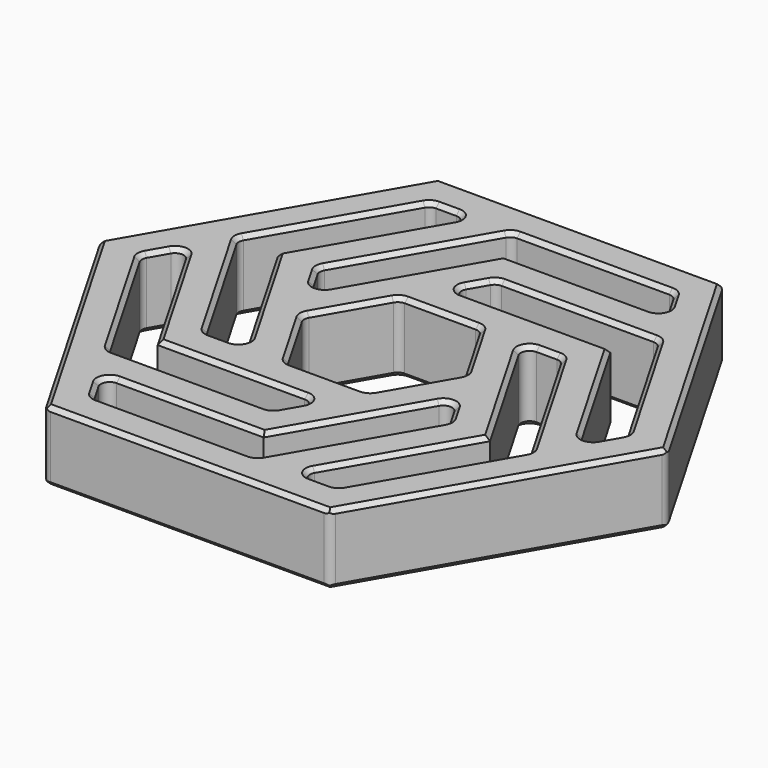
from build123d import *

# Parameters (mm, degrees)
F1_DEPTH = 12.7
F2_R     = 1.5875
F3_SIZE  = 0.762
F4_SIZE  = 0.762
F5_R     = 1.5875


with BuildPart() as f1:
    # F0 (on Top) → F1 (new body)
    with BuildSketch(Plane.XY):
        Polygon((25.663219, 44.45), (-25.663219, 44.45), (-51.326439, 0), (-25.663219, -44.45), (25.663219, -44.45), (51.326439, 0), align=None)
        Polygon((3.666174, -31.75), (18.330871, -6.35), (21.997045, -12.7), (7.332348, -38.1), (-21.997045, -38.1), (-25.663219, -31.75), align=None, mode=Mode.SUBTRACT)
        Polygon((-25.663219, -19.05), (3.666174, -19.05), (0, -25.4), (-29.329394, -25.4), (-43.994091, 0), (-40.327916, 6.35), align=None, mode=Mode.SUBTRACT)
        Polygon((14.664697, -38.1), (29.329394, -12.7), (14.664697, 12.7), (21.997045, 12.7), (36.661742, -12.7), (21.997045, -38.1), align=None, mode=Mode.SUBTRACT)
        Polygon((-14.664697, 0), (-7.332348, 12.7), (7.332348, 12.7), (14.664697, 0), (7.332348, -12.7), (-7.332348, -12.7), align=None, mode=Mode.SUBTRACT)
        Polygon((-29.329394, 12.7), (-14.664697, -12.7), (-21.997045, -12.7), (-36.661742, 12.7), (-21.997045, 38.1), (-14.664697, 38.1), align=None, mode=Mode.SUBTRACT)
        Polygon((40.327916, -6.35), (25.663219, 19.05), (-3.666174, 19.05), (0, 25.4), (29.329394, 25.4), (43.994091, 0), align=None, mode=Mode.SUBTRACT)
        Polygon((-3.666174, 31.75), (-18.330871, 6.35), (-21.997045, 12.7), (-7.332348, 38.1), (7.332348, 38.1), (21.997045, 38.1), (25.663219, 31.75), align=None, mode=Mode.SUBTRACT)
    extrude(amount=F1_DEPTH)

    # F2
    f2_edges = [f1.edges().sort_by_distance(p)[0] for p in [
        (14.664697, 0, 6.35),
        (7.332348, -12.7, 6.35),
        (-7.332348, -12.7, 6.35),
        (-14.664697, 0, 6.35),
        (-7.332348, 12.7, 6.35),
        (7.332348, 12.7, 6.35),
        (14.664697, -38.1, 6.35),
        (21.997045, -38.1, 6.35),
        (36.661742, -12.7, 6.35),
        (21.997045, 12.7, 6.35),
        (14.664697, 12.7, 6.35),
        (40.327916, -6.35, 6.35),
        (43.994091, 0, 6.35),
        (29.329394, 25.4, 6.35),
        (0, 25.4, 6.35),
        (-3.666174, 19.05, 6.35),
        (21.997045, 38.1, 6.35),
        (25.663219, 31.75, 6.35),
        (-7.332348, 38.1, 6.35),
        (-21.997045, 12.7, 6.35),
        (-18.330871, 6.35, 6.35),
        (-14.664697, 38.1, 6.35),
        (-21.997045, 38.1, 6.35),
        (-36.661742, 12.7, 6.35),
        (-21.997045, -12.7, 6.35),
        (-14.664697, -12.7, 6.35),
        (-40.327916, 6.35, 6.35),
        (-43.994091, 0, 6.35),
        (-29.329394, -25.4, 6.35),
        (0, -25.4, 6.35),
        (3.666174, -19.05, 6.35),
        (-25.663219, -31.75, 6.35),
        (-21.997045, -38.1, 6.35),
        (7.332348, -38.1, 6.35),
        (21.997045, -12.7, 6.35),
        (18.330871, -6.35, 6.35),
    ]]
    fillet(f2_edges, radius=F2_R)

    # F3
    f3_edges = [f1.edges().sort_by_distance(p)[0] for p in [
        (-23.371861, -35.71875, 12.7),
        (-21.874252, -37.887315, 12.7),
        (-24.288404, -32.54375, 12.7),
        (-7.332348, -38.1, 12.7),
        (-9.623707, -31.75, 12.7),
        (7.209555, -37.887315, 12.7),
        (10.311115, -20.240625, 12.7),
        (14.664697, -25.4, 12.7),
        (18.330871, -7.9375, 12.7),
        (21.751458, -12.7, 12.7),
        (20.62223, -10.31875, 12.7),
        (0, 44.45, 12.7),
        (-38.494829, 22.225, 12.7),
        (-38.494829, -22.225, 12.7),
        (0, -44.45, 12.7),
        (38.494829, -22.225, 12.7),
        (38.494829, 22.225, 12.7),
        (-42.619275, 2.38125, 12.7),
        (-43.748503, 0, 12.7),
        (-40.327916, 4.7625, 12.7),
        (-36.661742, -12.7, 12.7),
        (-32.30816, -7.540625, 12.7),
        (-29.2066, -25.187315, 12.7),
        (-12.373338, -19.05, 12.7),
        (-14.664697, -25.4, 12.7),
        (2.291359, -19.84375, 12.7),
        (-0.122794, -25.187315, 12.7),
        (1.374815, -23.01875, 12.7),
        (19.247415, -38.1, 12.7),
        (21.874252, -37.887315, 12.7),
        (16.039512, -37.30625, 12.7),
        (29.329394, -25.4, 12.7),
        (22.684453, -24.209375, 12.7),
        (36.416155, -12.7, 12.7),
        (22.684453, -1.190625, 12.7),
        (29.329394, 0, 12.7),
        (16.039512, 11.90625, 12.7),
        (21.874252, 12.487315, 12.7),
        (19.247415, 12.7, 12.7),
        (-10.998523, 6.35, 12.7),
        (-14.41911, 0, 12.7),
        (-7.209555, 12.487315, 12.7),
        (-10.998523, -6.35, 12.7),
        (0, 12.7, 12.7),
        (-7.209555, -12.487315, 12.7),
        (7.209555, 12.487315, 12.7),
        (0, -12.7, 12.7),
        (10.998523, 6.35, 12.7),
        (7.209555, -12.487315, 12.7),
        (14.41911, 0, 12.7),
        (10.998523, -6.35, 12.7),
        (-19.247415, 38.1, 12.7),
        (-21.874252, 37.887315, 12.7),
        (-16.039512, 37.30625, 12.7),
        (-29.329394, 25.4, 12.7),
        (-22.684453, 24.209375, 12.7),
        (-36.416155, 12.7, 12.7),
        (-22.684453, 1.190625, 12.7),
        (-29.329394, 0, 12.7),
        (-16.039512, -11.90625, 12.7),
        (-21.874252, -12.487315, 12.7),
        (-19.247415, -12.7, 12.7),
        (32.30816, 7.540625, 12.7),
        (40.327916, -4.7625, 12.7),
        (12.373338, 19.05, 12.7),
        (42.619275, -2.38125, 12.7),
        (-2.291359, 19.84375, 12.7),
        (43.748503, 0, 12.7),
        (-1.374815, 23.01875, 12.7),
        (36.661742, 12.7, 12.7),
        (0.122794, 25.187315, 12.7),
        (29.2066, 25.187315, 12.7),
        (14.664697, 25.4, 12.7),
        (23.371861, 35.71875, 12.7),
        (21.874252, 37.887315, 12.7),
        (24.288404, 32.54375, 12.7),
        (7.332348, 38.1, 12.7),
        (9.623707, 31.75, 12.7),
        (-7.209555, 37.887315, 12.7),
        (-10.311115, 20.240625, 12.7),
        (-14.664697, 25.4, 12.7),
        (-18.330871, 7.9375, 12.7),
        (-21.751458, 12.7, 12.7),
        (-20.62223, 10.31875, 12.7),
    ]]
    chamfer(f3_edges, length=F3_SIZE)

    # F4
    f4_edges = [f1.edges().sort_by_distance(p)[0] for p in [
        (-23.371861, -35.71875, 0),
        (-21.874252, -37.887315, 0),
        (-24.288404, -32.54375, 0),
        (-7.332348, -38.1, 0),
        (-9.623707, -31.75, 0),
        (7.209555, -37.887315, 0),
        (10.311115, -20.240625, 0),
        (14.664697, -25.4, 0),
        (18.330871, -7.9375, 0),
        (21.751458, -12.7, 0),
        (20.62223, -10.31875, 0),
        (0, 44.45, 0),
        (-38.494829, 22.225, 0),
        (-38.494829, -22.225, 0),
        (0, -44.45, 0),
        (38.494829, -22.225, 0),
        (38.494829, 22.225, 0),
        (-42.619275, 2.38125, 0),
        (-43.748503, 0, 0),
        (-40.327916, 4.7625, 0),
        (-36.661742, -12.7, 0),
        (-32.30816, -7.540625, 0),
        (-29.2066, -25.187315, 0),
        (-12.373338, -19.05, 0),
        (-14.664697, -25.4, 0),
        (2.291359, -19.84375, 0),
        (-0.122794, -25.187315, 0),
        (1.374815, -23.01875, 0),
        (19.247415, -38.1, 0),
        (21.874252, -37.887315, 0),
        (16.039512, -37.30625, 0),
        (29.329394, -25.4, 0),
        (22.684453, -24.209375, 0),
        (36.416155, -12.7, 0),
        (22.684453, -1.190625, 0),
        (29.329394, 0, 0),
        (16.039512, 11.90625, 0),
        (21.874252, 12.487315, 0),
        (19.247415, 12.7, 0),
        (-10.998523, 6.35, 0),
        (-14.41911, 0, 0),
        (-7.209555, 12.487315, 0),
        (-10.998523, -6.35, 0),
        (0, 12.7, 0),
        (-7.209555, -12.487315, 0),
        (7.209555, 12.487315, 0),
        (0, -12.7, 0),
        (10.998523, 6.35, 0),
        (7.209555, -12.487315, 0),
        (14.41911, 0, 0),
        (10.998523, -6.35, 0),
        (-19.247415, 38.1, 0),
        (-21.874252, 37.887315, 0),
        (-16.039512, 37.30625, 0),
        (-29.329394, 25.4, 0),
        (-22.684453, 24.209375, 0),
        (-36.416155, 12.7, 0),
        (-22.684453, 1.190625, 0),
        (-29.329394, 0, 0),
        (-16.039512, -11.90625, 0),
        (-21.874252, -12.487315, 0),
        (-19.247415, -12.7, 0),
        (32.30816, 7.540625, 0),
        (40.327916, -4.7625, 0),
        (12.373338, 19.05, 0),
        (42.619275, -2.38125, 0),
        (-2.291359, 19.84375, 0),
        (43.748503, 0, 0),
        (-1.374815, 23.01875, 0),
        (36.661742, 12.7, 0),
        (0.122794, 25.187315, 0),
        (29.2066, 25.187315, 0),
        (14.664697, 25.4, 0),
        (23.371861, 35.71875, 0),
        (21.874252, 37.887315, 0),
        (24.288404, 32.54375, 0),
        (7.332348, 38.1, 0),
        (9.623707, 31.75, 0),
        (-7.209555, 37.887315, 0),
        (-10.311115, 20.240625, 0),
        (-14.664697, 25.4, 0),
        (-18.330871, 7.9375, 0),
        (-21.751458, 12.7, 0),
        (-20.62223, 10.31875, 0),
    ]]
    chamfer(f4_edges, length=F4_SIZE)

    # F5
    f5_edges = [f1.edges().sort_by_distance(p)[0] for p in [
        (-51.326439, 0, 6.35),
        (-25.663219, -44.45, 6.35),
        (25.663219, -44.45, 6.35),
        (51.326439, 0, 6.35),
        (25.663219, 44.45, 6.35),
        (-25.663219, 44.45, 6.35),
    ]]
    fillet(f5_edges, radius=F5_R)


solid = f1.part
